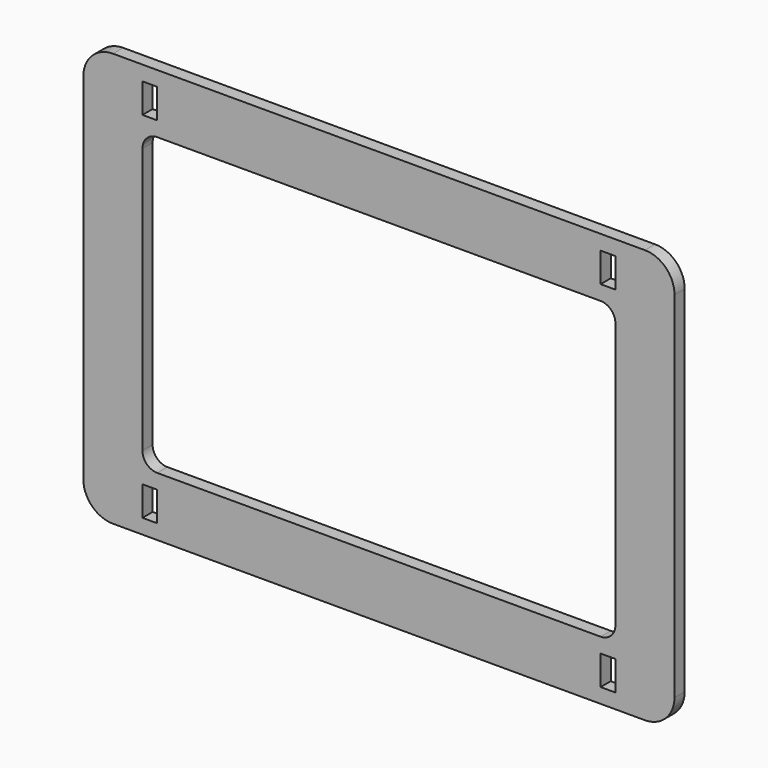
from build123d import *

# Parameters (mm, degrees)
F0_W     = 5
F0_H     = 10
F1_DEPTH = 4.3


with BuildPart() as f1:
    # F0 (on Front) → F1 (new body)
    with BuildSketch(Plane.XZ):
        with BuildLine():
            Line((90, 70), (-90, 70))
            ThreePointArc((-90, 70), (-97.071068, 67.071068), (-100, 60))
            Line((-100, 60), (-100, -60))
            ThreePointArc((-100, -60), (-97.071068, -67.071068), (-90, -70))
            Line((-90, -70), (90, -70))
            ThreePointArc((90, -70), (97.071068, -67.071068), (100, -60))
            Line((100, -60), (100, 60))
            ThreePointArc((100, 60), (97.071068, 67.071068), (90, 70))
        make_face()
        with Locations((-77.5, -60)):
            Rectangle(F0_W, F0_H, mode=Mode.SUBTRACT)
        with Locations((77.5, -60)):
            Rectangle(F0_W, F0_H, mode=Mode.SUBTRACT)
        with Locations((-77.5, 60)):
            Rectangle(F0_W, F0_H, mode=Mode.SUBTRACT)
        with BuildLine():
            ThreePointArc((-80, 45), (-78.535534, 48.535534), (-75, 50))
            Line((-75, 50), (75, 50))
            ThreePointArc((75, 50), (78.535534, 48.535534), (80, 45))
            Line((80, 45), (80, -45))
            ThreePointArc((80, -45), (78.535534, -48.535534), (75, -50))
            Line((75, -50), (-75, -50))
            ThreePointArc((-75, -50), (-78.535534, -48.535534), (-80, -45))
            Line((-80, -45), (-80, 45))
        make_face(mode=Mode.SUBTRACT)
        with Locations((77.5, 60)):
            Rectangle(F0_W, F0_H, mode=Mode.SUBTRACT)
    extrude(amount=F1_DEPTH)


solid = f1.part
